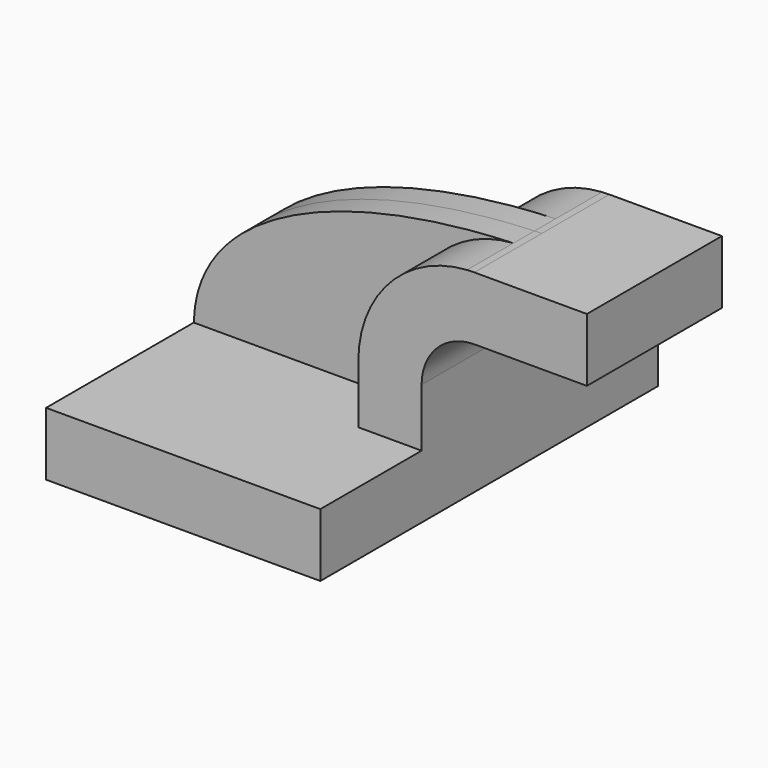
from build123d import *

# Parameters (mm, degrees)
F1_DEPTH = 63.5
F0_W     = 30.702464082
F0_H     = 19.05
F2_DEPTH = 25.4
F3_DEPTH = 7.9375


with BuildPart() as f1:
    # F0 (on Front) → F1 (new body, symmetric)
    with BuildSketch(Plane.XZ):
        Polygon((22.225, 9.525), (-41.275, 9.525), (-41.275, -9.525), (41.275, -9.525), (41.275, 9.525), align=None)
    extrude(amount=F1_DEPTH, both=True)

    # F0 (on Front) → F2 (join, symmetric)
    with BuildSketch(Plane.XZ):
        with BuildLine():
            Line((22.225, 27.0002), (22.225, 9.525))
            Line((22.225, 9.525), (41.275, 9.525))
            Line((41.275, 9.525), (41.275, 27.0002))
            ThreePointArc((41.275, 27.0002), (45.9246798487, 38.2255201513), (57.15, 42.8752))
            Line((57.15, 42.8752), (60.325, 42.8752))
            Line((60.325, 42.8752), (60.325, 61.9252))
            Line((60.325, 61.9252), (57.15, 61.9252))
            add(Edge.make_bspline(
                [(54.9349397203, 61.8548859541), (55.6723551603, 61.8816525899), (56.410751637, 61.905089585), (57.15, 61.9252)],
                knots=[109.884057266, 109.884057266, 109.884057266, 109.884057266, 111.5045361635, 111.5045361635, 111.5045361635, 111.5045361635], degree=3))
            ThreePointArc((54.9349397203, 61.8548859541), (31.6831921389, 50.899934776), (22.225, 27.0002))
        make_face()
        with Locations((75.676232041, 52.4002)):
            Rectangle(F0_W, F0_H)
    extrude(amount=F2_DEPTH, both=True)

    # F0 (on Front) → F3 (join, symmetric)
    with BuildSketch(Plane.XZ):
        with BuildLine():
            add(Edge.make_bspline(
                [(-41.275, 9.525), (-40.5618331855, 42.9146462333), (4.9310793981, 60.0398505673), (54.9349397203, 61.8548859541)],
                knots=[0, 0, 0, 0, 109.884057266, 109.884057266, 109.884057266, 109.884057266], degree=3))
            Line((-41.275, 9.525), (22.225, 9.525))
            Line((22.225, 9.525), (22.225, 27.0002))
            ThreePointArc((22.225, 27.0002), (31.6831921389, 50.899934776), (54.9349397203, 61.8548859541))
        make_face()
    extrude(amount=F3_DEPTH, both=True)


solid = f1.part
